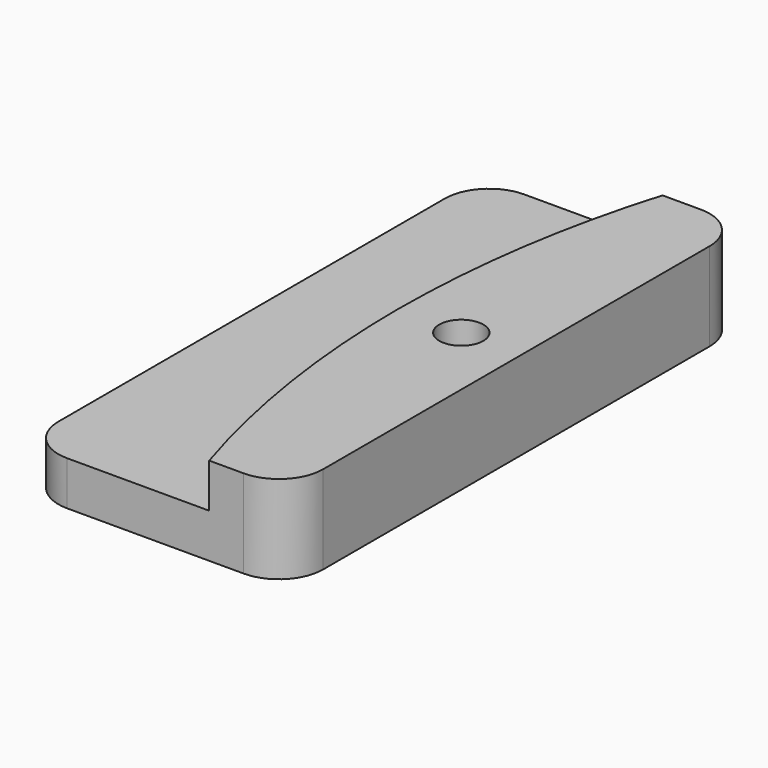
from build123d import *

# Parameters (mm, degrees)
F0_R     = 2.5
F1_DEPTH = 10
F2_DEPTH = 5
F3_R     = 5


with BuildPart() as f1:
    # F0 (on Top) → F1 (new body)
    with BuildSketch(Plane.XY):
        with BuildLine():
            ThreePointArc((-105.3399322968, 31.6780470312), (-107.7412608362, 22.1770312131), (-109.287464972, 12.5))
            ThreePointArc((-109.287464972, 12.5), (-110, 0), (-109.287464972, -12.5))
            ThreePointArc((-109.287464972, -12.5), (-107.5911875881, -22.8940244035), (-104.9086893631, -33.0781936646))
            Line((-104.9086893631, -33.0781936646), (-96, -33.0781936646))
            Line((-96, -33.0781936646), (-96, 31.6780470312))
            Line((-96, 31.6780470312), (-105.3399322968, 31.6780470312))
        make_face()
        with Locations((-102.7974784374, 0)):
            Circle(F0_R, mode=Mode.SUBTRACT)
    extrude(amount=F1_DEPTH)

    # F0 (on Top) → F2 (join)
    with BuildSketch(Plane.XY):
        with BuildLine():
            Line((-110, 12.5), (-109.287464972, 12.5))
            ThreePointArc((-109.287464972, 12.5), (-107.7412608362, 22.1770312131), (-105.3399322968, 31.6780470312))
            Line((-105.3399322968, 31.6780470312), (-126, 31.6780470312))
            Line((-126, 31.6780470312), (-126, 12.5))
            Line((-126, 12.5), (-110, 12.5))
        make_face()
        with BuildLine():
            ThreePointArc((-109.287464972, -12.5), (-110, 0), (-109.287464972, 12.5))
            Line((-109.287464972, 12.5), (-110, 12.5))
            Line((-110, 12.5), (-126, 12.5))
            Line((-126, 12.5), (-126, -12.5))
            Line((-126, -12.5), (-110, -12.5))
            Line((-110, -12.5), (-109.287464972, -12.5))
        make_face()
        with BuildLine():
            ThreePointArc((-104.9086893631, -33.0781936646), (-107.5911875881, -22.8940244035), (-109.287464972, -12.5))
            Line((-109.287464972, -12.5), (-110, -12.5))
            Line((-110, -12.5), (-126, -12.5))
            Line((-126, -12.5), (-126, -33.0781936646))
            Line((-126, -33.0781936646), (-104.9086893631, -33.0781936646))
        make_face()
    extrude(amount=F2_DEPTH)

    # F3
    f3_edges = [f1.edges().sort_by_distance(p)[0] for p in [
        (-126, -33.078194, 2.5),
        (-96, -33.078194, 5),
        (-126, 31.678047, 2.5),
        (-96, 31.678047, 5),
    ]]
    fillet(f3_edges, radius=F3_R)


solid = f1.part
